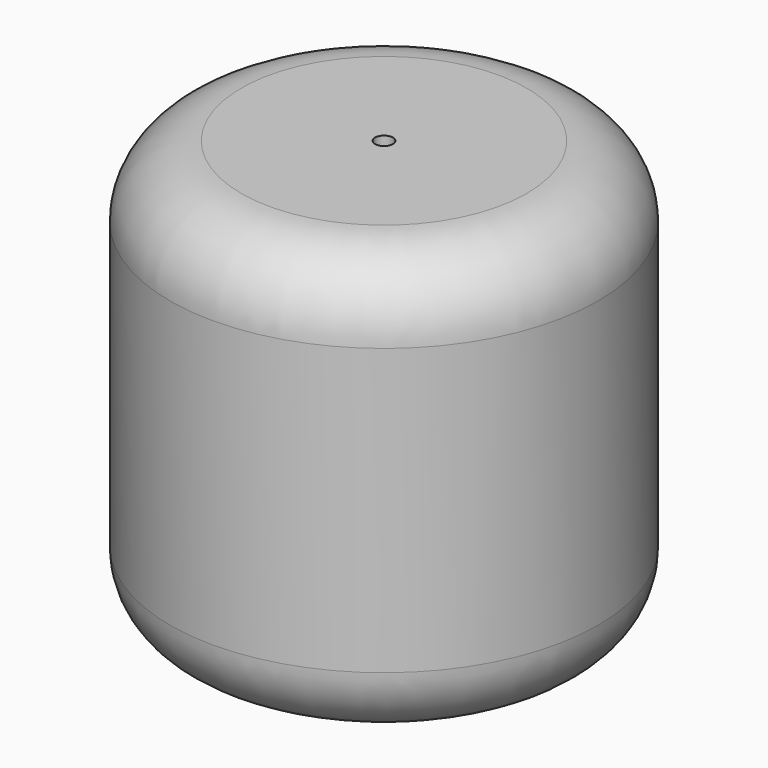
from build123d import *

# Parameters (mm, degrees)
F0_R     = 76.2
F1_DEPTH = 152.4
F2_R     = 25.4
F3_R     = 3.175
F4_DEPTH = 254


with BuildPart() as f1:
    # F0 (on Top) → F1 (new body)
    with BuildSketch(Plane.XY):
        Circle(F0_R)
    extrude(amount=F1_DEPTH)

    # F2
    f2_edges = [f1.edges().sort_by_distance(p)[0] for p in [
        (76.2, 0, 76.2),
        (-76.2, 0, 0),
        (-76.2, 0, 152.4),
    ]]
    fillet(f2_edges, radius=F2_R)

    # F3 (on face) → F4 (cut)
    with BuildSketch(Plane.XY.offset(152.4)):
        Circle(F3_R)
    extrude(amount=-F4_DEPTH, mode=Mode.SUBTRACT)


solid = f1.part
